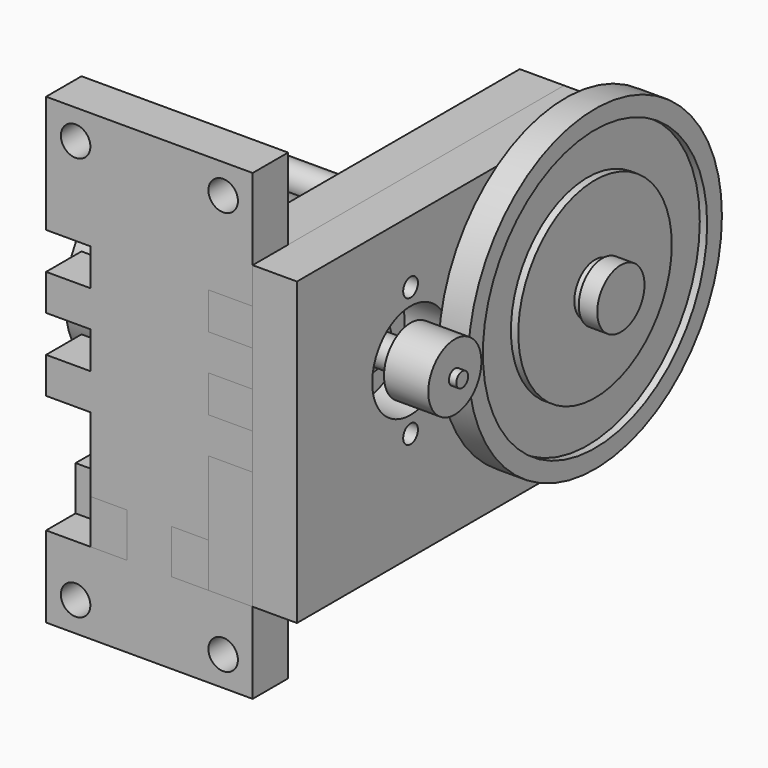
from build123d import *

# Parameters (mm, degrees)
F7_R      = 1
F8_DEPTH  = 5
F9_W      = 52.75
F9_H      = 40.75
F9_R      = 1.25
F9_R_2    = 6.5
F9_R_3    = 3.5
F10_DEPTH = 6
F11_R     = 2
F11_R_2   = 12.25
F12_DEPTH = 6
F14_DEPTH = 6
F15_R     = 2
F16_DEPTH = 6
F17_R     = 11.75
F17_R_2   = 1.75
F18_DEPTH = 3
F19_R     = 6.75
F19_R_2   = 1.75
F20_DEPTH = 9


with BuildPart() as f2:
    # F1 (on Top) → F2 (revolve)
    with BuildSketch(Plane.XY):
        Polygon((2, 21.5), (0, 21.5), (-2, 21.5), (-2, 19), (-1, 19), (-1, 13), (-2, 13), (-2, 3.5), (-7, 3.5), (-7, 1.75), (0, 1.75), (3, 1.75), (3, 3.5), (2, 3.5), (2, 13), (1, 13), (1, 19), (2, 19), align=None)
    revolve(axis=Axis((3.1311251223, 0, 0), (1, 0, 0)))


with BuildPart() as f4:
    # F3 (on Top) → F4 (revolve)
    with BuildSketch(Plane.XY):
        Polygon((3, 2), (-57.5, 2), (-57.5, 0), (5.5, 0), (5.5, 4), (3, 4), align=None)
    revolve(axis=Axis((-26, 0, 0), (-1, 0, 0)))


with BuildPart() as f6:
    # F5 (on Top) → F6 (revolve)
    with BuildSketch(Plane.XY):
        with BuildLine():
            Line((-11, -12.75), (-40, -12.75))
            Line((-40, -12.75), (-40, -13))
            Line((-40, -13), (-39, -13))
            Line((-39, -13), (-39, -22))
            Line((-39, -22), (-42, -22))
            Line((-42, -22), (-42, -24))
            Line((-42, -24), (-43, -24))
            Line((-43, -24), (-43, -25))
            Line((-43, -25), (4, -25))
            Line((4, -25), (4, -24))
            Line((4, -24), (3, -24))
            Line((3, -24), (3, -20.5))
            Line((3, -20.5), (-3, -20.5))
            Line((-3, -20.5), (-3, -23))
            Line((-3, -23), (-7, -23))
            Line((-7, -23), (-7, -24))
            Line((-7, -24), (-8, -24))
            Line((-8, -24), (-8, -22))
            Line((-8, -22), (-9, -22))
            Line((-9, -22), (-9, -14.75))
            ThreePointArc((-9, -14.75), (-9.5857864376, -13.3357864376), (-11, -12.75))
        make_face()
    revolve(axis=Axis((-19.5, -25, 0), (-1, 0, 0)))

    # F7 (on face) → F8 (cut)
    with BuildSketch(Plane.YZ.offset(-9)):
        with Locations((-33.75, 0)):
            Circle(F7_R)
        with Locations((-16.25, 0)):
            Circle(F7_R)
    extrude(amount=-F8_DEPTH, mode=Mode.SUBTRACT)


with BuildPart() as f10:
    # F9 (on face) → F10 (new body)
    with BuildSketch(Plane.YZ.offset(-9)):
        with Locations((-17.875, -3.125)):
            Rectangle(F9_W, F9_H)
        with Locations((-25, -8.75)):
            Circle(F9_R, mode=Mode.SUBTRACT)
        with Locations((-25, 0)):
            Circle(F9_R_2, mode=Mode.SUBTRACT)
        with Locations((-25, 8.75)):
            Circle(F9_R, mode=Mode.SUBTRACT)
        Circle(F9_R_3, mode=Mode.SUBTRACT)
    extrude(amount=F10_DEPTH)


with BuildPart() as f12:
    # F11 (on face) → F12 (new body)
    with BuildSketch(Plane(origin=(-9, 0, 0), x_dir=(0, -1, 0), z_dir=(-1, 0, 0))):
        Polygon((38.25, 17.25), (-8.5, 17.25), (-8.5, -23.5), (4.65, -23.5), (4.65, -17.5), (9.55, -17.5), (9.55, -23.5), (14.55, -23.5), (14.55, -17.5), (19.45, -17.5), (19.45, -23.5), (24.45, -23.5), (24.45, -17.5), (29.35, -17.5), (29.35, -23.5), (34.35, -23.5), (34.35, -17.5), (39.25, -17.5), (39.25, -23.5), (44.25, -23.5), (44.25, -7.45), (38.25, -7.45), (38.25, -2.55), (44.25, -2.55), (44.25, 2.45), (38.25, 2.45), (38.25, 7.35), (44.25, 7.35), (44.25, 12.35), (38.25, 12.35), align=None)
        Circle(F11_R, mode=Mode.SUBTRACT)
        with Locations((25, 0)):
            Circle(F11_R_2, mode=Mode.SUBTRACT)
    extrude(amount=F12_DEPTH)


with BuildPart() as f14:
    # F13 (on face) → F14 (new body)
    with BuildSketch(Plane(origin=(0, 0, -17.5), x_dir=(1, 0, 0), z_dir=(0, 0, -1))):
        with BuildLine():
            Line((-15, 4.65), (-9, 4.65))
            Line((-9, 4.65), (-9, 9.55))
            Line((-9, 9.55), (-15, 9.55))
            Line((-15, 9.55), (-15, 14.55))
            Line((-15, 14.55), (-9, 14.55))
            Line((-9, 14.55), (-9, 19.45))
            Line((-9, 19.45), (-15, 19.45))
            Line((-15, 19.45), (-15, 24.45))
            Line((-15, 24.45), (-9, 24.45))
            Line((-9, 24.45), (-9, 29.35))
            Line((-9, 29.35), (-15, 29.35))
            Line((-15, 29.35), (-15, 34.35))
            Line((-15, 34.35), (-9, 34.35))
            Line((-9, 34.35), (-9, 39.25))
            Line((-9, 39.25), (-15, 39.25))
            Line((-15, 39.25), (-15, 44.25))
            Line((-15, 44.25), (-20, 44.25))
            Line((-20, 44.25), (-20, 38.25))
            Line((-20, 38.25), (-26, 38.25))
            Line((-26, 38.25), (-26, 44.25))
            Line((-26, 44.25), (-31, 44.25))
            Line((-31, 44.25), (-31, 39.25))
            Line((-31, 39.25), (-37, 39.25))
            Line((-37, 39.25), (-37, 34.35))
            Line((-37, 34.35), (-31, 34.35))
            Line((-31, 34.35), (-31, 29.35))
            Line((-31, 29.35), (-37, 29.35))
            Line((-37, 29.35), (-37, 24.45))
            Line((-37, 24.45), (-31, 24.45))
            Line((-31, 24.45), (-31, 19.45))
            Line((-31, 19.45), (-37, 19.45))
            Line((-37, 19.45), (-37, 14.55))
            Line((-37, 14.55), (-31, 14.55))
            Line((-31, 14.55), (-31, 9.55))
            Line((-31, 9.55), (-37, 9.55))
            Line((-37, 9.55), (-37, 4.65))
            Line((-37, 4.65), (-31, 4.65))
            ThreePointArc((-31, 4.65), (-29.9120079111, 5.6731097841), (-28.4655346897, 6.0448565201))
            Line((-28.4655346897, 6.0448565201), (-23, 6.0448565201))
            Line((-23, 6.0448565201), (-17.5344653103, 6.0448565201))
            ThreePointArc((-17.5344653103, 6.0448565201), (-16.0879920889, 5.6731097841), (-15, 4.65))
        make_face()
    extrude(amount=F14_DEPTH)


with BuildPart() as f16:
    # F15 (on face) → F16 (new body)
    with BuildSketch(Plane.XZ.offset(38.25)):
        Polygon((-9, 12.35), (-9, 28.25), (-23, 28.25), (-37, 28.25), (-37, 12.35), (-31, 12.35), (-31, 7.35), (-37, 7.35), (-37, 2.45), (-31, 2.45), (-31, -2.55), (-37, -2.55), (-37, -7.45), (-31, -7.45), (-31, -17.5), (-26, -17.5), (-26, -23.5), (-37, -23.5), (-37, -34.5), (-23, -34.5), (-9, -34.5), (-9, -23.5), (-20, -23.5), (-20, -17.5), (-15, -17.5), (-15, -7.45), (-9, -7.45), (-9, -2.55), (-15, -2.55), (-15, 2.45), (-9, 2.45), (-9, 7.35), (-15, 7.35), (-15, 12.35), align=None)
        with Locations((-33, -30.5)):
            Circle(F15_R, mode=Mode.SUBTRACT)
        with Locations((-13, -30.5)):
            Circle(F15_R, mode=Mode.SUBTRACT)
        with Locations((-33, 24.25)):
            Circle(F15_R, mode=Mode.SUBTRACT)
        with Locations((-13, 24.25)):
            Circle(F15_R, mode=Mode.SUBTRACT)
    extrude(amount=F16_DEPTH)


with BuildPart() as f18:
    # F17 (on face) → F18 (new body)
    with BuildSketch(Plane(origin=(-15, 0, 0), x_dir=(0, -1, 0), z_dir=(-1, 0, 0))):
        Circle(F17_R)
        Circle(F17_R_2, mode=Mode.SUBTRACT)
    extrude(amount=F18_DEPTH)


with BuildPart() as f20:
    # F19 (on face) → F20 (new body)
    with BuildSketch(Plane(origin=(-18, 0, 0), x_dir=(0, -1, 0), z_dir=(-1, 0, 0))):
        Circle(F19_R)
        Circle(F19_R_2, mode=Mode.SUBTRACT)
    extrude(amount=F20_DEPTH)


solid = Compound([f2.part, f4.part, f6.part, f10.part, f12.part, f14.part, f16.part, f18.part, f20.part])
